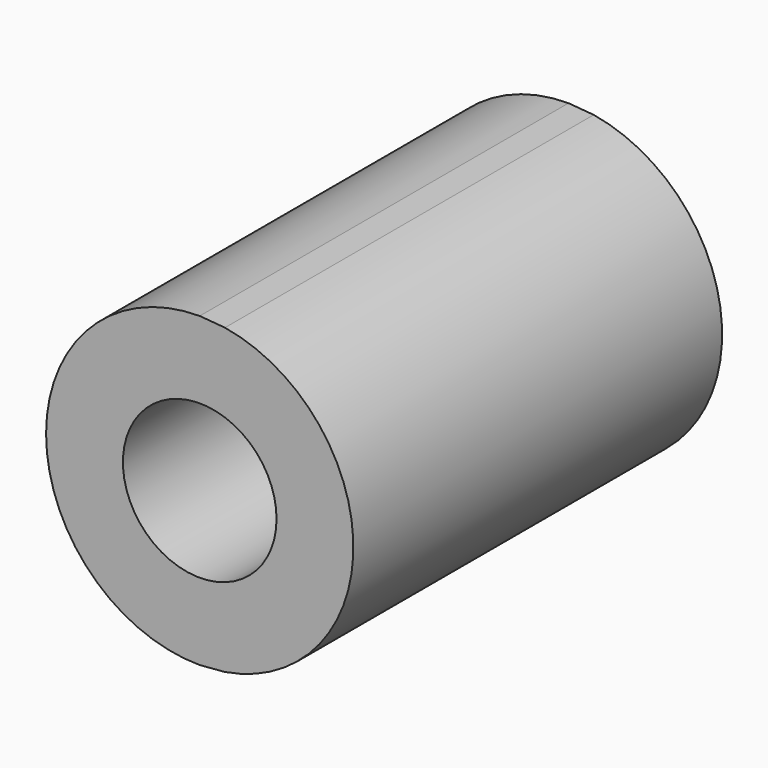
from build123d import *

# Parameters (mm, degrees)
F0_R     = 317.4331433041
F1_DEPTH = 635
F2_DEPTH = 1270


with BuildPart() as f1:
    # F0 (on Front) → F1 (new body)
    with BuildSketch(Plane.XZ):
        with BuildLine():
            Line((104.2782479982, 626.3793155863), (0, 635))
            ThreePointArc((0, 635), (-635, 0), (0, -635))
            Line((0, -635), (104.2782479982, -626.3793155863))
            ThreePointArc((104.2782479982, -626.3793155863), (484.4799724854, -410.492577595), (635, 0))
            ThreePointArc((635, 0), (484.4799724854, 410.492577595), (104.2782479982, 626.3793155863))
        make_face()
        Circle(F0_R, mode=Mode.SUBTRACT)
    extrude(amount=F1_DEPTH)

    # F2 (add): a face of the model
    f2_faces = [f1.faces().sort_by_distance(p)[0] for p in [
        (50.6593761013, -635, 612.7902067916),
    ]]
    extrude(f2_faces, amount=F2_DEPTH)


solid = f1.part
